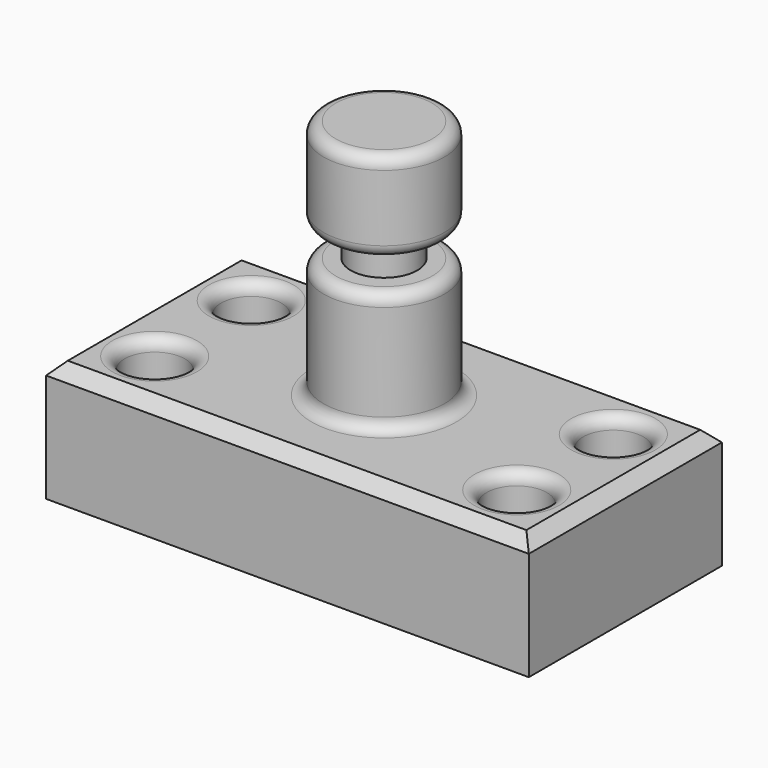
from build123d import *

# Parameters (mm, degrees)
F0_W     = 101.6
F0_H     = 50.8
F1_DEPTH = 25.4
F2_R     = 6.35
F3_DEPTH = 25.401
F4_W     = 12.7
F4_H     = 50.8
F6_W     = 16.1429308974
F6_H     = 6.35
F8_R     = 2.54
F9_SIZE  = 2.54


with BuildPart() as f1:
    # F0 (on Top) → F1 (new body)
    with BuildSketch(Plane.XY):
        Rectangle(F0_W, F0_H)
    extrude(amount=F1_DEPTH)

    # F2 (on face) → F3 (cut, through all)
    with BuildSketch(Plane.XY.offset(25.4)):
        with Locations((38.1, -12.7)):
            Circle(F2_R)
        with Locations((-38.1, -12.7)):
            Circle(F2_R)
        with Locations((-38.1, 12.7)):
            Circle(F2_R)
        with Locations((38.1, 12.7)):
            Circle(F2_R)
    extrude(amount=-F3_DEPTH, mode=Mode.SUBTRACT)

    # F4 (on Front) → F5 (revolve)
    with BuildSketch(Plane.XZ):
        with Locations((-6.35, 50.8)):
            Rectangle(F4_W, F4_H)
    revolve(axis=Axis((0, 0, 50.8), (0, 0, -1)))

    # F6 (on Front) → F7 (revolve, cut)
    with BuildSketch(Plane.XZ):
        with Locations((-15.0679587696, 53.975)):
            Rectangle(F6_W, F6_H)
    revolve(axis=Axis((0, 0, 41.794333607), (0, 0, 1)), mode=Mode.SUBTRACT)

    # F8
    f8_edges = [f1.edges().sort_by_distance(p)[0] for p in [
        (12.7, 0, 76.2),
        (12.7, 0, 57.15),
        (12.7, 0, 50.8),
        (12.7, 0, 25.4),
        (-44.45, -12.7, 25.4),
        (-44.45, 12.7, 25.4),
        (31.75, -12.7, 25.4),
        (31.75, 12.7, 25.4),
    ]]
    fillet(f8_edges, radius=F8_R)

    # F9
    f9_edges = [f1.edges().sort_by_distance(p)[0] for p in [
        (-50.8, 0, 25.4),
        (0, -25.4, 25.4),
        (50.8, 0, 25.4),
        (0, 25.4, 25.4),
    ]]
    chamfer(f9_edges, length=F9_SIZE)


solid = f1.part
